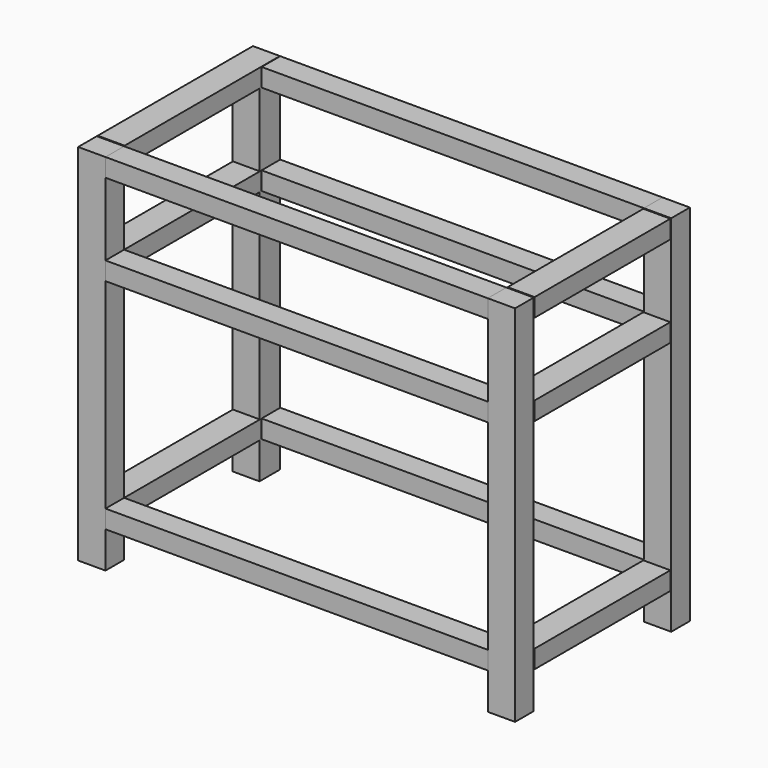
from build123d import *

# Parameters (mm, degrees)
F0_W     = 74
F0_H     = 70
F0_W_2   = 75
F0_H_2   = 64
F1_DEPTH = 1000
F2_W     = 64
F2_H     = 50
F3_DEPTH = 525
F4_W     = 74
F4_H     = 50
F5_DEPTH = 233


with BuildPart() as f1:
    # F0 (on Top) → F1 (new body)
    with BuildSketch(Plane.XY):
        with Locations((-563, 265)):
            Rectangle(F0_W, F0_H)
        with Locations((-562.5, -268)):
            Rectangle(F0_W_2, F0_H_2)
        with Locations((562.5, -268)):
            Rectangle(F0_W_2, F0_H_2)
        with Locations((562.5, 268)):
            Rectangle(F0_W_2, F0_H_2)
    extrude(amount=F1_DEPTH)

    # F4 (on Front) → F5 (join, symmetric)
    with BuildSketch(Plane.XZ):
        with Locations((563, 725)):
            Rectangle(F4_W, F4_H)
        with Locations((563, 125)):
            Rectangle(F4_W, F4_H)
        with Locations((563, 975)):
            Rectangle(F4_W, F4_H)
        with Locations((-562, 125)):
            Rectangle(F4_W, F4_H)
        with Locations((-562, 725)):
            Rectangle(F4_W, F4_H)
        with Locations((-563, 975)):
            Rectangle(F4_W, F4_H)
    extrude(amount=F5_DEPTH, both=True)


with BuildPart() as f3:
    # F2 (on Right) → F3 (new body, symmetric)
    with BuildSketch(Plane.YZ):
        with Locations((-268, 975)):
            Rectangle(F2_W, F2_H)
        with Locations((-268, 725)):
            Rectangle(F2_W, F2_H)
        with Locations((-268, 125)):
            Rectangle(F2_W, F2_H)
        with Locations((268, 125)):
            Rectangle(F2_W, F2_H)
        with Locations((268, 725)):
            Rectangle(F2_W, F2_H)
        with Locations((268, 975)):
            Rectangle(F2_W, F2_H)
    extrude(amount=F3_DEPTH, both=True)


solid = Compound([f1.part, f3.part])
